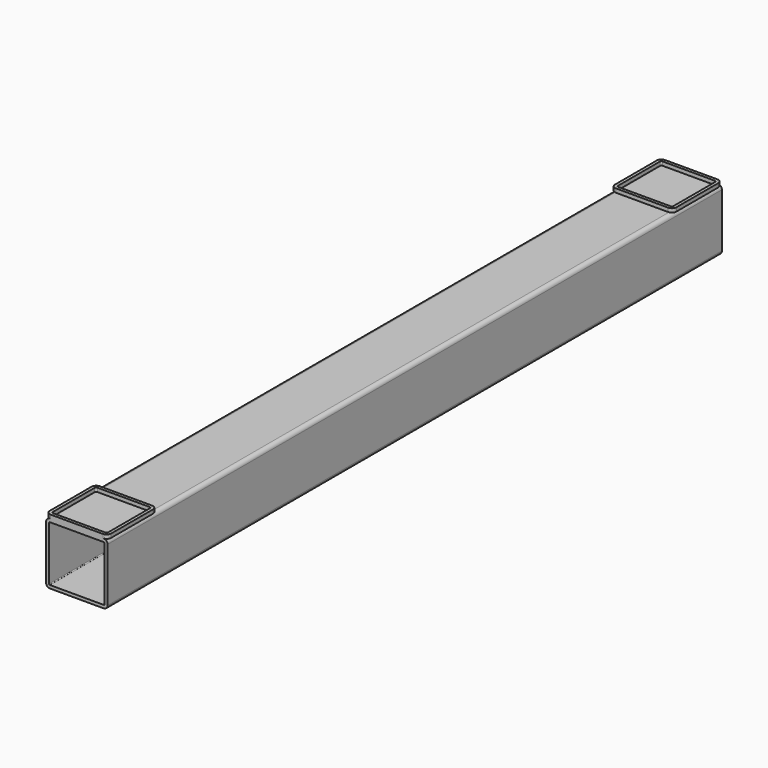
from build123d import *

# Parameters (mm, degrees)
F1_DEPTH = 1000
F3_DEPTH = 5
F5_DEPTH = 5


with BuildPart() as f1:
    # F0 (on Front) → F1 (new body)
    with BuildSketch(Plane.XZ):
        with BuildLine():
            ThreePointArc((40, 35), (38.535534, 38.535534), (35, 40))
            Line((35, 40), (-35, 40))
            ThreePointArc((-35, 40), (-38.535534, 38.535534), (-40, 35))
            Line((-40, 35), (-40, -35))
            ThreePointArc((-40, -35), (-38.535534, -38.535534), (-35, -40))
            Line((-35, -40), (35, -40))
            ThreePointArc((35, -40), (38.535534, -38.535534), (40, -35))
            Line((40, -35), (40, 35))
        make_face()
        with BuildLine():
            ThreePointArc((-36, 35), (-35.707107, 35.707107), (-35, 36))
            Line((-35, 36), (35, 36))
            ThreePointArc((35, 36), (35.707107, 35.707107), (36, 35))
            Line((36, 35), (36, -35))
            ThreePointArc((36, -35), (35.707107, -35.707107), (35, -36))
            Line((35, -36), (-35, -36))
            ThreePointArc((-35, -36), (-35.707107, -35.707107), (-36, -35))
            Line((-36, -35), (-36, 35))
        make_face(mode=Mode.SUBTRACT)
    extrude(amount=-F1_DEPTH)

    # F2 (on face) → F3 (join)
    with BuildSketch(Plane.XY.offset(40)):
        with BuildLine():
            ThreePointArc((40, 74), (38.242641, 78.242641), (34, 80))
            Line((34, 80), (-34, 80))
            ThreePointArc((-34, 80), (-38.242641, 78.242641), (-40, 74))
            Line((-40, 74), (-40, 6))
            ThreePointArc((-40, 6), (-38.242641, 1.757359), (-34, 0))
            Line((-34, 0), (34, 0))
            ThreePointArc((34, 0), (38.242641, 1.757359), (40, 6))
            Line((40, 6), (40, 74))
        make_face()
        with BuildLine():
            ThreePointArc((34, 76), (35.414214, 75.414214), (36, 74))
            Line((36, 74), (36, 6))
            ThreePointArc((36, 6), (35.414214, 4.585786), (34, 4))
            Line((34, 4), (-34, 4))
            ThreePointArc((-34, 4), (-35.414214, 4.585786), (-36, 6))
            Line((-36, 6), (-36, 74))
            ThreePointArc((-36, 74), (-35.414214, 75.414214), (-34, 76))
            Line((-34, 76), (34, 76))
        make_face(mode=Mode.SUBTRACT)
    extrude(amount=F3_DEPTH)

    # F4 (on face) → F5 (join)
    with BuildSketch(Plane.XY.offset(40)):
        with BuildLine():
            ThreePointArc((40, 994), (38.242641, 998.242641), (34, 1000))
            Line((34, 1000), (-34, 1000))
            ThreePointArc((-34, 1000), (-38.242641, 998.242641), (-40, 994))
            Line((-40, 994), (-40, 926))
            ThreePointArc((-40, 926), (-38.242641, 921.757359), (-34, 920))
            Line((-34, 920), (34, 920))
            ThreePointArc((34, 920), (38.242641, 921.757359), (40, 926))
            Line((40, 926), (40, 994))
        make_face()
        with BuildLine():
            ThreePointArc((34, 996), (35.414214, 995.414214), (36, 994))
            Line((36, 994), (36, 926))
            ThreePointArc((36, 926), (35.414214, 924.585786), (34, 924))
            Line((34, 924), (-34, 924))
            ThreePointArc((-34, 924), (-35.414214, 924.585786), (-36, 926))
            Line((-36, 926), (-36, 994))
            ThreePointArc((-36, 994), (-35.414214, 995.414214), (-34, 996))
            Line((-34, 996), (34, 996))
        make_face(mode=Mode.SUBTRACT)
    extrude(amount=F5_DEPTH)


solid = f1.part
